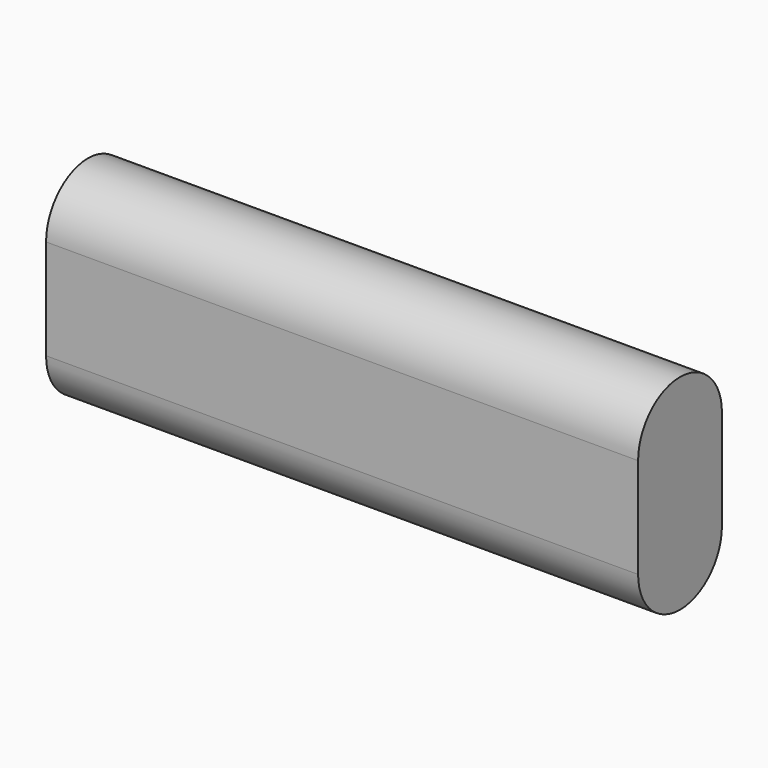
from build123d import *

# Parameters (mm, degrees)
F1_DEPTH = 130


with BuildPart() as f1:
    # F0 (on Right) → F1 (new body)
    with BuildSketch(Plane.YZ):
        with BuildLine():
            ThreePointArc((11.5, 11), (0, 22.5), (-11.5, 11))
            Line((-11.5, 11), (-11.5, -11))
            ThreePointArc((-11.5, -11), (0, -22.5), (11.5, -11))
            Line((11.5, -11), (11.5, 11))
        make_face()
    extrude(amount=F1_DEPTH)


solid = f1.part
